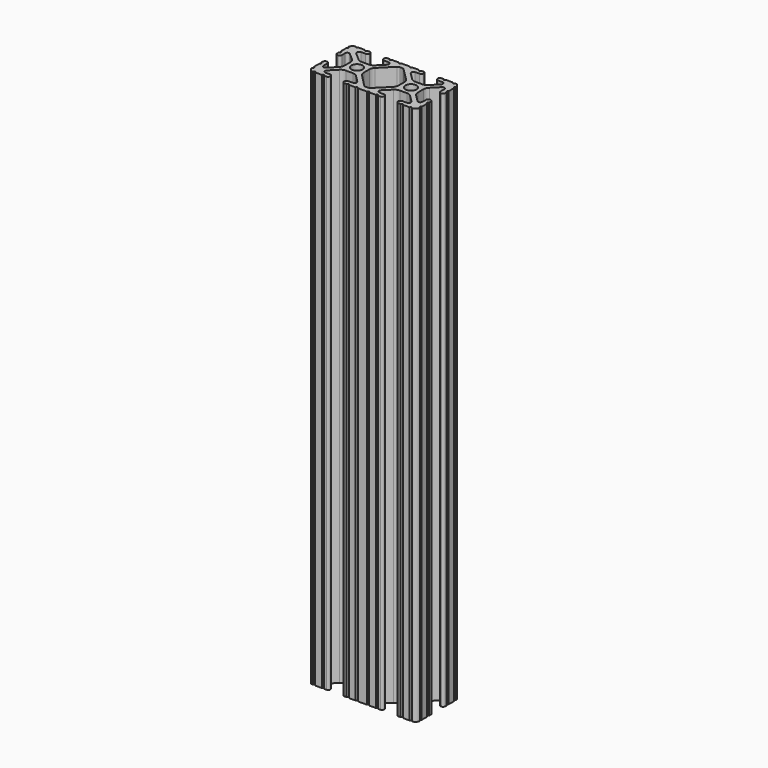
from build123d import *

# Parameters (mm, degrees)
SKETCH162_R   = 2.6035
EXTRUDE_DEPTH = 254


with BuildPart() as part:
    # Sketch162 → Extrude (new body)
    with BuildSketch(Plane.XY):
        with BuildLine():
            Line((8.41248, -10.4902), (6.283641, -10.4902))
            ThreePointArc((5.532577, -8.666072), (5.297292, -9.829633), (6.283641, -10.4902))
            Line((5.532577, -8.666072), (8.809985, -5.416263))
            ThreePointArc((11.045536, -4.4958), (9.836721, -4.73492), (8.809985, -5.416263))
            Line((11.045536, -4.4958), (14.354464, -4.4958))
            ThreePointArc((16.590015, -5.416263), (15.563279, -4.73492), (14.354464, -4.4958))
            Line((16.590015, -5.416263), (19.867423, -8.666072))
            ThreePointArc((19.116359, -10.4902), (20.102708, -9.829633), (19.867423, -8.666072))
            Line((19.116359, -10.4902), (16.98752, -10.4902))
            ThreePointArc((16.98752, -10.4902), (16.245751, -10.797451), (15.9385, -11.53922))
            Line((15.9385, -11.53922), (15.938501, -11.65105))
            ThreePointArc((15.938501, -11.65105), (16.245731, -12.39277), (16.98745, -12.7))
            Line((16.98745, -12.7), (18.017115, -12.7))
            ThreePointArc((19.033115, -12.7), (18.525115, -12.192), (18.017115, -12.7))
            Line((19.033115, -12.7), (22.2504, -12.7))
            ThreePointArc((23.2664, -12.699847), (22.758323, -12.192), (22.2504, -12.7))
            ThreePointArc((23.2664, -12.699847), (24.782523, -12.082523), (25.399847, -10.5664))
            ThreePointArc((25.4, -9.5504), (24.892, -10.058323), (25.399847, -10.5664))
            Line((25.4, -9.5504), (25.4, -6.333084))
            ThreePointArc((25.4, -5.317084), (24.892, -5.825084), (25.4, -6.333084))
            Line((25.4, -5.317084), (25.4, -4.23752))
            ThreePointArc((25.4, -4.23752), (25.107394, -3.531106), (24.40098, -3.2385))
            Line((24.40098, -3.2385), (24.239219, -3.2385))
            ThreePointArc((24.239219, -3.2385), (23.49745, -3.545751), (23.1902, -4.28752))
            Line((23.1902, -4.28752), (23.1902, -6.334741))
            ThreePointArc((21.434003, -7.066536), (22.556027, -7.286024), (23.1902, -6.334741))
            Line((21.434003, -7.066536), (18.147951, -3.808156))
            ThreePointArc((17.208502, -1.55362), (17.45276, -2.774838), (18.147951, -3.808156))
            Line((17.208502, -1.55362), (17.208502, 1.695179))
            ThreePointArc((18.140486, 3.94229), (17.450739, 2.911536), (17.208502, 1.695179))
            Line((18.140486, 3.94229), (21.43158, 7.227386))
            ThreePointArc((23.1902, 6.498002), (22.554449, 7.449941), (21.43158, 7.227386))
            Line((23.1902, 6.498002), (23.190199, 4.28752))
            ThreePointArc((23.190199, 4.28752), (23.49745, 3.545751), (24.23922, 3.2385))
            Line((24.23922, 3.2385), (24.350981, 3.2385))
            ThreePointArc((24.350981, 3.2385), (25.09275, 3.545751), (25.4, 4.28752))
            Line((25.4, 4.28752), (25.4, 5.317134))
            ThreePointArc((25.4, 6.333134), (24.892, 5.825134), (25.4, 5.317134))
            Line((25.4, 6.333134), (25.4, 9.5504))
            ThreePointArc((25.399847, 10.5664), (24.892, 10.058324), (25.4, 9.5504))
            ThreePointArc((25.399847, 10.5664), (24.782523, 12.082523), (23.2664, 12.699847))
            ThreePointArc((22.2504, 12.7), (22.758323, 12.192), (23.2664, 12.699847))
            Line((22.2504, 12.7), (19.03309, 12.7))
            ThreePointArc((18.01709, 12.7), (18.52509, 12.192), (19.03309, 12.7))
            Line((18.01709, 12.7), (16.98747, 12.7))
            ThreePointArc((16.98747, 12.7), (16.2457, 12.392749), (15.938449, 11.65098))
            Line((15.938449, 11.65098), (15.938449, 11.53922))
            ThreePointArc((15.938449, 11.53922), (16.2457, 10.797451), (16.987469, 10.4902))
            Line((16.987469, 10.4902), (19.116359, 10.4902))
            ThreePointArc((19.834124, 8.755125), (20.055198, 9.862578), (19.116359, 10.4902))
            Line((19.834124, 8.755125), (16.496607, 5.42369))
            ThreePointArc((14.253592, 4.4958), (15.467274, 4.736929), (16.496607, 5.42369))
            Line((14.253592, 4.4958), (11.146408, 4.4958))
            ThreePointArc((8.903392, 5.42369), (9.932726, 4.736929), (11.146408, 4.4958))
            Line((8.903392, 5.42369), (5.565875, 8.755125))
            ThreePointArc((6.283641, 10.4902), (5.344802, 9.862579), (5.565875, 8.755125))
            Line((6.283641, 10.4902), (8.412531, 10.4902))
            ThreePointArc((8.412531, 10.4902), (9.1543, 10.797451), (9.461551, 11.53922))
            Line((9.461551, 11.53922), (9.461551, 11.65098))
            ThreePointArc((9.461551, 11.65098), (9.1543, 12.392749), (8.412531, 12.7))
            Line((8.412531, 12.7), (7.382872, 12.7))
            ThreePointArc((6.366872, 12.7), (6.874872, 12.192), (7.382872, 12.7))
            Line((6.366872, 12.7), (3.149606, 12.7))
            ThreePointArc((2.133606, 12.7), (2.641606, 12.192), (3.149606, 12.7))
            Line((2.133606, 12.7), (-2.133606, 12.7))
            ThreePointArc((-3.149581, 12.7), (-2.641594, 12.192013), (-2.133606, 12.7))
            Line((-3.149581, 12.7), (-6.36691, 12.7))
            ThreePointArc((-7.38291, 12.7), (-6.87491, 12.192), (-6.36691, 12.7))
            Line((-7.38291, 12.7), (-8.412531, 12.7))
            ThreePointArc((-8.412531, 12.7), (-9.1543, 12.392749), (-9.461551, 11.65098))
            Line((-9.461551, 11.65098), (-9.461551, 11.53922))
            ThreePointArc((-9.461551, 11.53922), (-9.1543, 10.797451), (-8.412531, 10.4902))
            Line((-8.412531, 10.4902), (-6.289393, 10.4902))
            ThreePointArc((-5.480677, 8.535266), (-5.23159, 9.78305), (-6.289393, 10.4902))
            Line((-5.480677, 8.535266), (-8.597934, 5.42369))
            ThreePointArc((-10.840949, 4.4958), (-9.627267, 4.736929), (-8.597934, 5.42369))
            Line((-10.840949, 4.4958), (-14.102564, 4.4958))
            ThreePointArc((-16.187895, 5.276637), (-15.215928, 4.69741), (-14.102564, 4.4958))
            Line((-16.187895, 5.276637), (-19.868248, 8.482246))
            ThreePointArc((-19.116384, 10.4902), (-20.188436, 9.74688), (-19.868248, 8.482246))
            Line((-19.116384, 10.4902), (-16.987469, 10.4902))
            ThreePointArc((-16.987469, 10.4902), (-16.2457, 10.797451), (-15.938449, 11.53922))
            Line((-15.938449, 11.53922), (-15.938449, 11.65098))
            ThreePointArc((-15.938449, 11.65098), (-16.2457, 12.392749), (-16.987469, 12.7))
            Line((-16.987469, 12.7), (-18.017103, 12.7))
            ThreePointArc((-19.033103, 12.7), (-18.525103, 12.192), (-18.017103, 12.7))
            Line((-19.033103, 12.7), (-22.2504, 12.7))
            ThreePointArc((-23.2664, 12.699847), (-22.758323, 12.192), (-22.2504, 12.7))
            ThreePointArc((-23.2664, 12.699847), (-24.782523, 12.082523), (-25.399847, 10.5664))
            ThreePointArc((-25.4, 9.5504), (-24.892, 10.058323), (-25.399847, 10.5664))
            Line((-25.4, 9.5504), (-25.4, 6.333084))
            ThreePointArc((-25.4, 5.317084), (-24.892, 5.825084), (-25.4, 6.333084))
            Line((-25.4, 5.317084), (-25.4, 4.23752))
            ThreePointArc((-25.4, 4.23752), (-25.107394, 3.531106), (-24.40098, 3.2385))
            Line((-24.40098, 3.2385), (-24.18922, 3.2385))
            ThreePointArc((-24.18922, 3.2385), (-23.482806, 3.531106), (-23.1902, 4.23752))
            Line((-23.1902, 4.23752), (-23.1902, 6.155876))
            ThreePointArc((-21.583975, 6.886926), (-22.622327, 7.038259), (-23.1902, 6.155876))
            Line((-21.583975, 6.886926), (-18.298171, 4.024971))
            ThreePointArc((-17.208502, 1.630807), (-17.493731, 2.946045), (-18.298171, 4.024971))
            Line((-17.208502, 1.630807), (-17.208502, -1.630807))
            ThreePointArc((-18.109441, -3.846495), (-17.442348, -2.826734), (-17.208502, -1.630807))
            Line((-18.109441, -3.846495), (-21.526347, -7.35342))
            ThreePointArc((-23.1902, -6.676867), (-22.585896, -7.574939), (-21.526347, -7.35342))
            Line((-23.1902, -6.676867), (-23.1902, -4.23752))
            ThreePointArc((-23.1902, -4.23752), (-23.482806, -3.531106), (-24.18922, -3.2385))
            Line((-24.18922, -3.2385), (-24.400979, -3.2385))
            ThreePointArc((-24.400979, -3.2385), (-25.107394, -3.531106), (-25.4, -4.23752))
            Line((-25.4, -4.23752), (-25.4, -5.317084))
            ThreePointArc((-25.4, -6.333185), (-24.891949, -5.825134), (-25.4, -5.317084))
            Line((-25.4, -6.333185), (-25.4, -9.5504))
            ThreePointArc((-25.399847, -10.5664), (-24.892, -10.058323), (-25.4, -9.5504))
            ThreePointArc((-25.399847, -10.5664), (-24.782522, -12.082522), (-23.2664, -12.699847))
            ThreePointArc((-22.2504, -12.7), (-22.758323, -12.192), (-23.2664, -12.699847))
            Line((-22.2504, -12.7), (-19.033103, -12.7))
            ThreePointArc((-18.017103, -12.7), (-18.525103, -12.192), (-19.033103, -12.7))
            Line((-18.017103, -12.7), (-16.98745, -12.7))
            ThreePointArc((-16.98745, -12.7), (-16.24573, -12.39277), (-15.9385, -11.65105))
            Line((-15.9385, -11.65105), (-15.9385, -11.53922))
            ThreePointArc((-15.9385, -11.53922), (-16.245751, -10.797451), (-16.98752, -10.4902))
            Line((-16.98752, -10.4902), (-19.116384, -10.4902))
            ThreePointArc((-19.844087, -8.765172), (-20.052503, -9.869097), (-19.116384, -10.4902))
            Line((-19.844087, -8.765172), (-16.618993, -5.455112))
            ThreePointArc((-14.344933, -4.4958), (-15.578994, -4.745442), (-16.618993, -5.455112))
            Line((-14.344933, -4.4958), (-11.083318, -4.4958))
            ThreePointArc((-8.816955, -5.447239), (-9.854331, -4.743307), (-11.083318, -4.4958))
            Line((-8.816955, -5.447239), (-5.564154, -8.762653))
            ThreePointArc((-6.289393, -10.4902), (-5.352591, -9.867473), (-5.564154, -8.762653))
            Line((-6.289393, -10.4902), (-8.41248, -10.4902))
            ThreePointArc((-8.41248, -10.4902), (-9.154249, -10.797451), (-9.4615, -11.53922))
            Line((-9.4615, -11.53922), (-9.4615, -11.65105))
            ThreePointArc((-9.4615, -11.65105), (-9.154269, -12.39277), (-8.41255, -12.7))
            Line((-8.41255, -12.7), (-7.382885, -12.7))
            ThreePointArc((-6.366885, -12.7), (-6.874885, -12.192), (-7.382885, -12.7))
            Line((-6.366885, -12.7), (-3.149581, -12.7))
            ThreePointArc((-2.133581, -12.7), (-2.641581, -12.192), (-3.149581, -12.7))
            Line((-2.133581, -12.7), (2.133581, -12.7))
            ThreePointArc((3.149581, -12.7), (2.641581, -12.192), (2.133581, -12.7))
            Line((3.149581, -12.7), (6.366897, -12.7))
            ThreePointArc((7.382897, -12.7), (6.874897, -12.192), (6.366897, -12.7))
            Line((7.382897, -12.7), (8.41255, -12.7))
            ThreePointArc((8.41255, -12.7), (9.15427, -12.392769), (9.4615, -11.65105))
            Line((9.4615, -11.65105), (9.461501, -11.53922))
            ThreePointArc((9.461501, -11.53922), (9.154249, -10.797451), (8.41248, -10.4902))
        make_face()
        with Locations((12.7, 0)):
            Circle(SKETCH162_R, mode=Mode.SUBTRACT)
        with Locations((-12.7, 0)):
            Circle(SKETCH162_R, mode=Mode.SUBTRACT)
        with BuildLine():
            Line((7.259514, 3.869413), (1.545749, 9.572767))
            ThreePointArc((1.545749, 9.572767), (1.035199, 9.9134), (0.433213, 10.033))
            Line((0.433213, 10.033), (-0.433213, 10.033))
            ThreePointArc((-0.433213, 10.033), (-1.0352, 9.9134), (-1.545749, 9.572767))
            Line((-1.545749, 9.572767), (-7.259514, 3.869413))
            ThreePointArc((-7.259514, 3.869413), (-7.949261, 2.83866), (-8.191498, 1.622303))
            Line((-8.191498, 1.622303), (-8.191498, -1.622303))
            ThreePointArc((-8.191498, -1.622303), (-7.955573, -2.823328), (-7.282861, -3.845864))
            Line((-7.282861, -3.845864), (-1.675572, -9.561086))
            ThreePointArc((-1.675572, -9.561086), (-1.161034, -9.910236), (-0.551457, -10.033))
            Line((-0.551457, -10.033), (0.3952, -10.033))
            ThreePointArc((0.3952, -10.033), (0.994773, -9.914396), (1.504033, -9.57645))
            Line((1.504033, -9.57645), (7.252049, -3.87684))
            ThreePointArc((7.252049, -3.87684), (7.94724, -2.843521), (8.191498, -1.622303))
            Line((8.191498, -1.622303), (8.191499, 1.622303))
            ThreePointArc((8.191499, 1.622303), (7.949262, 2.83866), (7.259514, 3.869413))
        make_face(mode=Mode.SUBTRACT)
    extrude(amount=EXTRUDE_DEPTH)


solid = part.part
